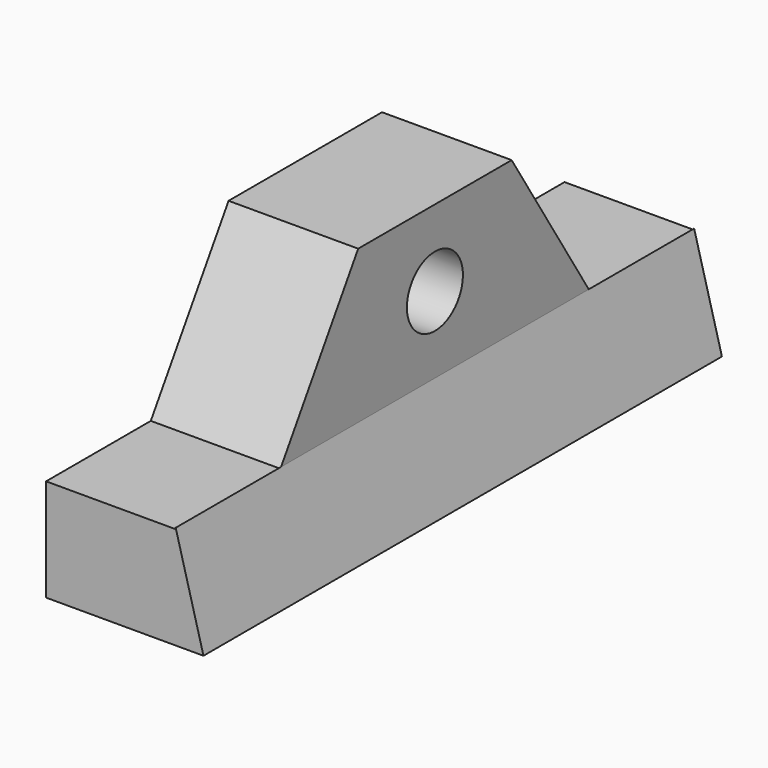
from build123d import *

# Parameters (mm, degrees)
SKETCH_W        = 14
SKETCH_H        = 19.8
PAD_DEPTH       = 50
POCKET_DEPTH    = 50.001
SKETCH002_R     = 2.7
POCKET001_DEPTH = 10.001
POCKET002_DEPTH = 10


with BuildPart() as part:
    # Sketch → Pad (new body)
    with BuildSketch(Plane.XZ):
        with Locations((7, 9.9)):
            Rectangle(SKETCH_W, SKETCH_H)
    extrude(amount=PAD_DEPTH)

    # Sketch001 (on Face5 of Pad) → Pocket (cut, through all)
    with BuildSketch(Plane(origin=(0, 0, 0), x_dir=(1, 0, 0), z_dir=(0, 1, 0))):
        Polygon((10, -19.8), (10, -8), (12.143594, 0), (14, 0), (14, -19.8), align=None)
    extrude(amount=-POCKET_DEPTH, mode=Mode.SUBTRACT)

    # Sketch002 (on Face6 of Pocket) → Pocket001 (cut, through all)
    with BuildSketch(Plane(origin=(10, 0, 0), x_dir=(0, 0, 1), z_dir=(1, 0, 0))):
        with Locations((13.9, 25)):
            Circle(SKETCH002_R)
    extrude(amount=-POCKET001_DEPTH, mode=Mode.SUBTRACT)

    # Sketch003 (on Face7 of Pocket001) → Pocket002 (cut)
    with BuildSketch(Plane(origin=(10, 0, 0), x_dir=(0, 0, 1), z_dir=(1, 0, 0))):
        Polygon((7.9, 39.9), (19.8, 32.4), (19.8, 50), (7.9, 50), align=None)
        Polygon((7.9, 0), (19.8, 0), (19.8, 17.6), (7.9, 10.1), align=None)
    extrude(amount=-POCKET002_DEPTH, mode=Mode.SUBTRACT)


solid = part.part
